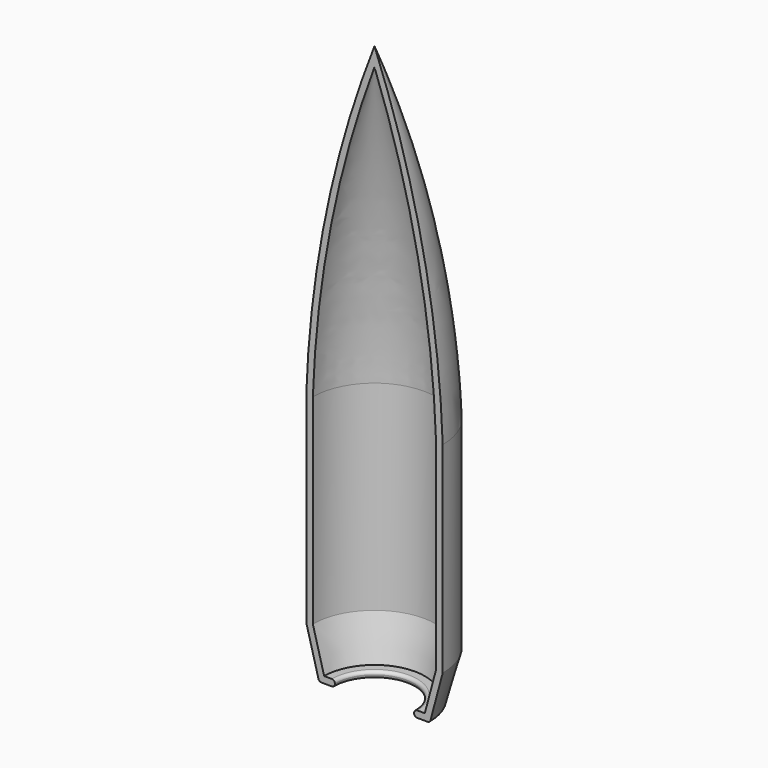
from build123d import *

# Parameters (mm, degrees)
F1_ANGLE = 180
F2_R     = 0.1778


with BuildPart() as f1:
    # F0 (on Front) → F1 (revolve)
    with BuildSketch(Plane.XZ):
        with BuildLine():
            Line((3.556, 13.974021), (3.556, 2.431545))
            Line((3.556, 2.431545), (2.904469, 0))
            Line((2.904469, 0), (2.286, 0))
            Line((2.286, 0), (2.286, -0.381))
            Line((2.286, -0.381), (3.196821, -0.381))
            Line((3.196821, -0.381), (3.937, 2.381385))
            Line((3.937, 2.381385), (3.937, 13.980661))
            ThreePointArc((3.937, 13.980661), (2.775962, 23.630641), (0, 32.945369))
            Line((0, 32.945369), (0, 31.880476))
            ThreePointArc((0, 31.880476), (2.500884, 23.070804), (3.556, 13.974021))
        make_face()
    revolve(axis=Axis((0, 0, 32.412922), (0, 0, 1)), revolution_arc=F1_ANGLE)

    # F2
    f2_edges = [f1.edges().sort_by_distance(p)[0] for p in [
        (0, 2.286, 0),
        (0, 2.286, -0.381),
        (0, 3.196821, -0.381),
    ]]
    fillet(f2_edges, radius=F2_R)


solid = f1.part
